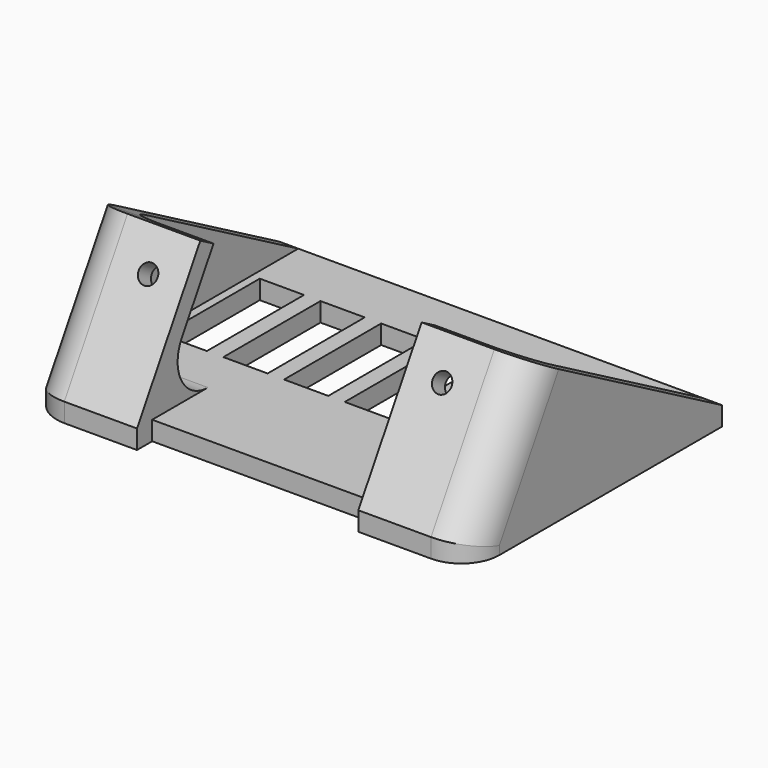
from build123d import *

# Parameters (mm, degrees)
F3_W      = 7
F3_H      = 19.2
F3_R      = 6
F4_DEPTH  = 3
F7_DEPTH  = 3
F8_START  = -67
F8_DEPTH  = 3
F9_START  = -52.5
F9_DEPTH  = 17.5
F10_DEPTH = 17.5
F11_R     = 6
F13_R     = 1.5
F14_DEPTH = 5


with BuildPart() as f4:
    # F3 (on Top) → F4 (new body)
    with BuildSketch(Plane.XY):
        Polygon((35, 25), (-35, 25), (-35, -25), (-17.5, -25), (-17.5, -22), (17.5, -22), (17.5, -25), (35, -25), align=None)
        with Locations((-27.2, 6.1666666667)):
            Rectangle(F3_W, F3_H, mode=Mode.SUBTRACT)
        with Locations((-17.6, 6.1666666667)):
            Rectangle(F3_W, F3_H, mode=Mode.SUBTRACT)
        with Locations((-8, 6.1666666667)):
            Rectangle(F3_W, F3_H, mode=Mode.SUBTRACT)
        with Locations((1.6, 6.1666666667)):
            Rectangle(F3_W, F3_H, mode=Mode.SUBTRACT)
        with Locations((11.2, 6.1666666667)):
            Rectangle(F3_W, F3_H, mode=Mode.SUBTRACT)
        with Locations((23.5, 6.1666666667)):
            Circle(F3_R, mode=Mode.SUBTRACT)
    extrude(amount=F4_DEPTH)

    # F6 (on offset) → F7 (join)
    with BuildSketch(Plane.YZ.offset(35)):
        Polygon((-12.4875, 24.0638871947), (-25, 3), (-21.5106155706, 3), (-9.871334024, 22.5938871947), align=None)
        Polygon((-9.871334024, 22.5938871947), (-21.5106155706, 3), (25, 3), align=None)
    extrude(amount=-F7_DEPTH)

    # F6 (on offset) → F8 (join)
    with BuildSketch(Plane.YZ.offset(35).offset(F8_START)):
        Polygon((-12.4875, 24.0638871947), (-25, 3), (-21.5106155706, 3), (-9.871334024, 22.5938871947), align=None)
        Polygon((-9.871334024, 22.5938871947), (-21.5106155706, 3), (25, 3), align=None)
    extrude(amount=-F8_DEPTH)

    # F6 (on offset) → F9 (join)
    with BuildSketch(Plane.YZ.offset(35).offset(F9_START)):
        Polygon((-12.4875, 24.0638871947), (-25, 3), (-21.5106155706, 3), (-9.871334024, 22.5938871947), align=None)
    extrude(amount=-F9_DEPTH)

    # F6 (on offset) → F10 (join)
    with BuildSketch(Plane.YZ.offset(35)):
        Polygon((-12.4875, 24.0638871947), (-25, 3), (-21.5106155706, 3), (-9.871334024, 22.5938871947), align=None)
    extrude(amount=-F10_DEPTH)

    # F11
    f11_edges = [f4.edges().sort_by_distance(p)[0] for p in [
        (32, -15.690975, 12.796944),
        (-32, -15.690975, 12.796944),
        (-24.75, -21.510616, 3),
        (24.75, -21.510616, 3),
        (35, -18.74375, 13.531944),
        (-35, -18.74375, 13.531944),
        (-35, -25, 1.5),
        (35, -25, 1.5),
    ]]
    fillet(f11_edges, radius=F11_R)

    # F13 (on offset) → F14 (cut)
    with BuildSketch(Plane(origin=(0, -19.7965335432, 11.7596587786), x_dir=(1, 0, 0), z_dir=(0, -0.8597504977, 0.5107142857))):
        with Locations((-23.25, 8.1863943504)):
            Circle(F13_R)
        with Locations((23.25, 8.1863943504)):
            Circle(F13_R)
    extrude(amount=-F14_DEPTH, mode=Mode.SUBTRACT)


solid = f4.part
